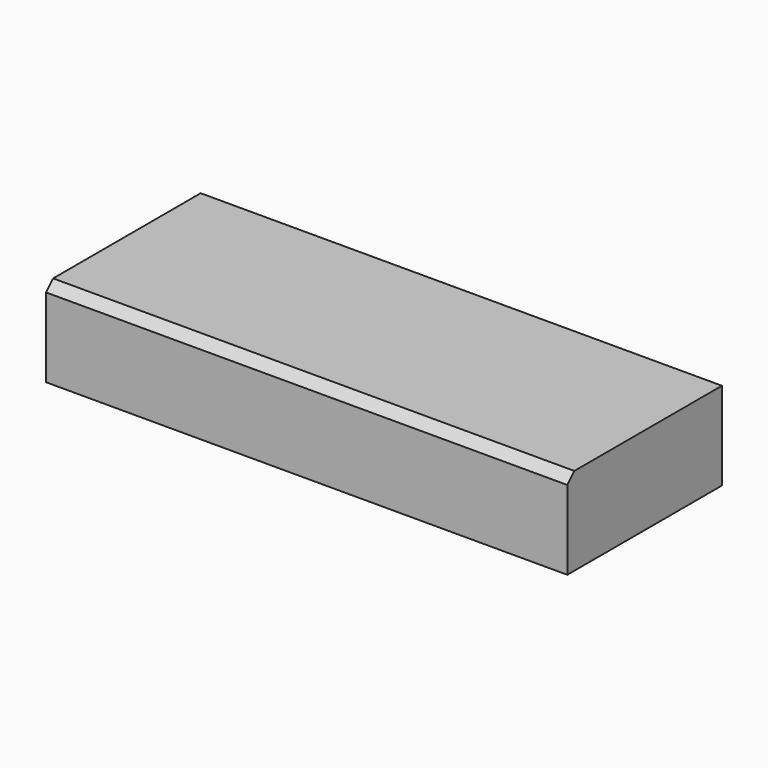
from build123d import *

# Parameters (mm, degrees)
F0_W          = 296.5588271618
F0_H          = 109.9614053965
F1_DEPTH      = 25
F1_DEPTH_BACK = 25
F2_SIZE2      = 5
F2_SIZE       = 5


with BuildPart() as f1:
    # F0 (on Top) → F1 (new body, two sides)
    with BuildSketch(Plane.XY) as f1_sk:
        Rectangle(F0_W, F0_H)
    extrude(amount=F1_DEPTH)
    extrude(f1_sk.sketch, amount=-F1_DEPTH_BACK)

    # F2
    f2_edges = [f1.edges().sort_by_distance(p)[0] for p in [
        (0, -54.980703, 25),
    ]]
    chamfer(f2_edges, length=F2_SIZE, length2=F2_SIZE2)


solid = f1.part
